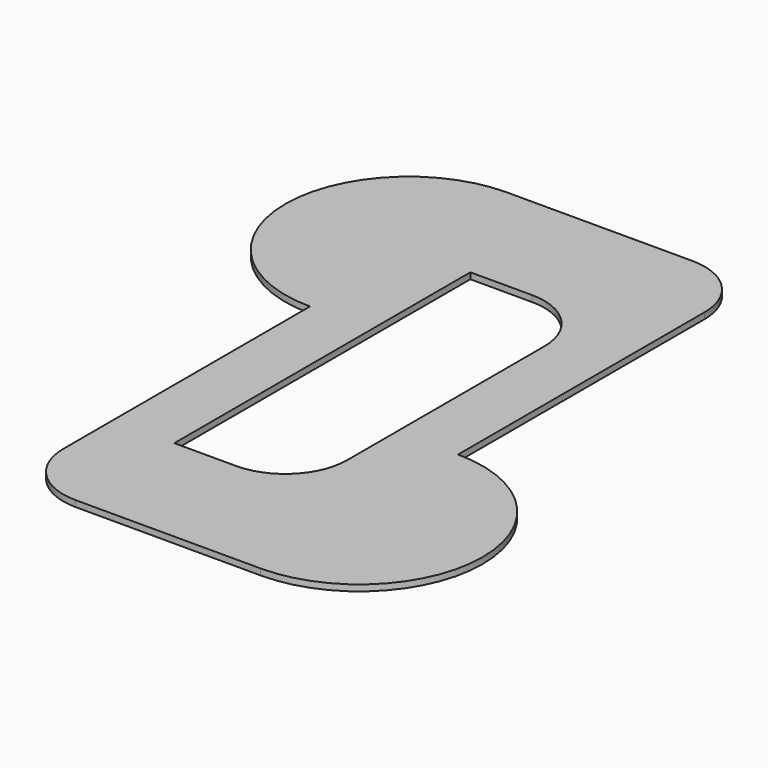
from build123d import *

# Parameters (mm, degrees)
F1_DEPTH = 0.635


with BuildPart() as f1:
    # F0 (on Top) → F1 (new body)
    with BuildSketch(Plane.XY):
        with BuildLine():
            Line((-6.35, -31.75), (12.7, -31.75))
            ThreePointArc((12.7, -31.75), (25.4, -19.05), (12.7, -6.35))
            Line((12.7, -6.35), (12.7, 25.4))
            ThreePointArc((12.7, 25.4), (10.840128, 29.890128), (6.35, 31.75))
            Line((6.35, 31.75), (-12.7, 31.75))
            ThreePointArc((-12.7, 31.75), (-25.4, 19.05), (-12.7, 6.35))
            Line((-12.7, 6.35), (-12.7, -25.4))
            ThreePointArc((-12.7, -25.4), (-10.840128, -29.890128), (-6.35, -31.75))
        make_face()
        with BuildLine():
            ThreePointArc((6.35, -12.7), (4.490128, -17.190128), (0, -19.05))
            Line((0, -19.05), (-6.35, -19.05))
            Line((-6.35, -19.05), (-6.35, 19.05))
            Line((-6.35, 19.05), (0, 19.05))
            ThreePointArc((0, 19.05), (4.490128, 17.190128), (6.35, 12.7))
            Line((6.35, 12.7), (6.35, -12.7))
        make_face(mode=Mode.SUBTRACT)
    extrude(amount=F1_DEPTH)


with BuildPart() as f2_1:
    # F2: copy of F1
    add(f1.part)


solid = Compound([f1.part, f2_1.part])
